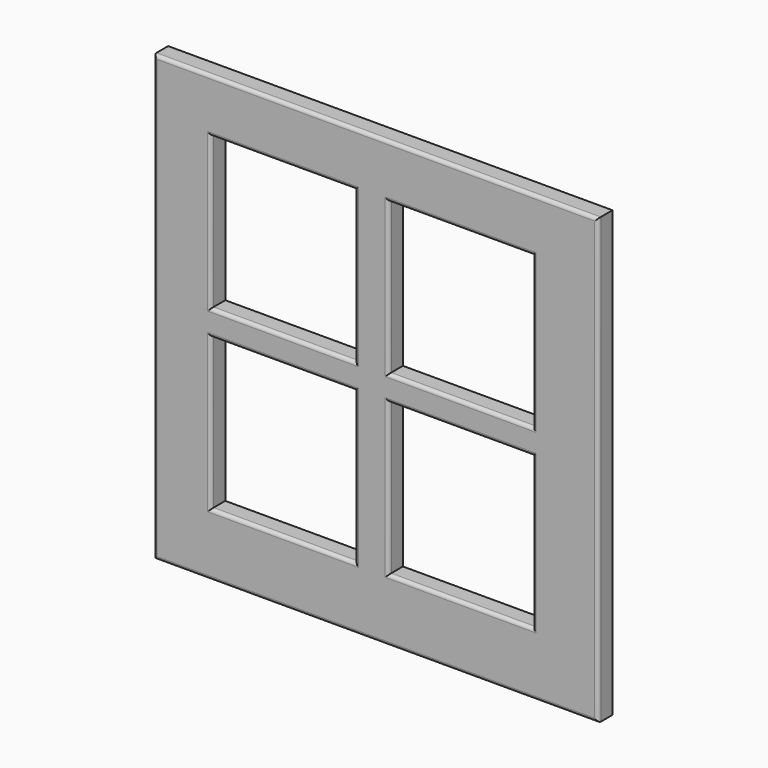
from build123d import *

# Parameters (mm, degrees)
F0_W      = 46.2659336627
F0_H      = 37.4186895788
F1_DEPTH  = 16
F2_DEPTH  = 396
F3_DEPTH  = 396
F4_W      = 286.636531353
F4_H      = 292.4217879772
F5_DEPTH  = 5
F7_DEPTH  = 5
F8_DEPTH  = 24.58
F9_DEPTH  = 28.59
F10_DEPTH = 44.51
F11_DEPTH = 43.6
F12_DEPTH = 23.54
F13_DEPTH = 25.39
F14_DEPTH = 8.54
F15_DEPTH = 6.68
F16_DEPTH = 6.68
F17_DEPTH = 6.68
F18_DEPTH = 1.72
F19_DEPTH = 11
F20_R     = 3


with BuildPart() as f1:
    # F0 (on Front) → F1 (new body)
    with BuildSketch(Plane.XZ):
        with Locations((23.1329668313, 18.7093447894)):
            Rectangle(F0_W, F0_H)
    extrude(amount=F1_DEPTH)

    # F2 (add): a face of the model
    f2_faces = [f1.faces().sort_by_distance(p)[0] for p in [
        (0, -8, 18.7093447894),
    ]]
    extrude(f2_faces, amount=-F2_DEPTH)

    # F3 (add): a face of the model
    f3_faces = [f1.faces().sort_by_distance(p)[0] for p in [
        (198, -8, 0),
    ]]
    extrude(f3_faces, amount=-F3_DEPTH)

    # F4 (on face) → F5 (cut)
    with BuildSketch(Plane.XZ.offset(16)):
        with Locations((194.2568123341, 201.971784234)):
            Rectangle(F4_W, F4_H)
    extrude(amount=-F5_DEPTH, mode=Mode.SUBTRACT)

    # F6 (on face) → F7 (join)
    with BuildSketch(Plane.XZ.offset(11)):
        Polygon((211.1129611731, 348.1826782227), (162.3977422714, 348.1826782227), (162.3977422714, 257.6956450939), (50.9385466576, 257.6956450939), (50.9385466576, 215.037047863), (160.5494618416, 215.037047863), (160.5494618416, 55.7608902454), (207.5308859348, 55.7608902454), (207.5308859348, 219.3460762501), (337.5750780106, 219.3460762501), (337.5750780106, 256.7791342735), (211.1129611731, 256.7791342735), align=None)
    extrude(amount=F7_DEPTH)

    # F8 (add): a face of the model
    f8_faces = [f1.faces().sort_by_distance(p)[0] for p in [
        (105.7440042496, -13.5, 215.037047863),
    ]]
    extrude(f8_faces, amount=F8_DEPTH)

    # F9 (add): a face of the model
    f9_faces = [f1.faces().sort_by_distance(p)[0] for p in [
        (272.5529819727, -13.5, 219.3460762501),
    ]]
    extrude(f9_faces, amount=F9_DEPTH)

    # F10 (cut): a face of the model
    f10_faces = [f1.faces().sort_by_distance(p)[0] for p in [
        (106.6681444645, -13.5, 257.6956450939),
    ]]
    extrude(f10_faces, amount=-F10_DEPTH, mode=Mode.SUBTRACT)

    # F11 (cut): a face of the model
    f11_faces = [f1.faces().sort_by_distance(p)[0] for p in [
        (274.3440195918, -13.5, 256.7791342735),
    ]]
    extrude(f11_faces, amount=-F11_DEPTH, mode=Mode.SUBTRACT)

    # F12 (cut): a face of the model
    f12_faces = [f1.faces().sort_by_distance(p)[0] for p in [
        (162.3977422714, -13.5, 280.6841616583),
    ]]
    extrude(f12_faces, amount=-F12_DEPTH, mode=Mode.SUBTRACT)

    # F13 (cut): a face of the model
    f13_faces = [f1.faces().sort_by_distance(p)[0] for p in [
        (160.5494618416, -13.5, 123.1089690542),
    ]]
    extrude(f13_faces, amount=-F13_DEPTH, mode=Mode.SUBTRACT)

    # F14 (cut): a face of the model
    f14_faces = [f1.faces().sort_by_distance(p)[0] for p in [
        (211.1129611731, -13.5, 280.6809062481),
    ]]
    extrude(f14_faces, amount=-F14_DEPTH, mode=Mode.SUBTRACT)

    # F15 (add): a face of the model
    f15_faces = [f1.faces().sort_by_distance(p)[0] for p in [
        (185.9377422714, -13.5, 280.6841616583),
    ]]
    extrude(f15_faces, amount=F15_DEPTH)

    # F16 (add): a face of the model
    f16_faces = [f1.faces().sort_by_distance(p)[0] for p in [
        (202.5729611731, -13.5, 280.6809062481),
    ]]
    extrude(f16_faces, amount=F16_DEPTH)

    # F17 (add): a face of the model
    f17_faces = [f1.faces().sort_by_distance(p)[0] for p in [
        (185.9394618416, -13.5, 123.1089690542),
    ]]
    extrude(f17_faces, amount=F17_DEPTH)

    # F18 (add): a face of the model
    f18_faces = [f1.faces().sort_by_distance(p)[0] for p in [
        (207.5308859348, -13.5, 123.2584832478),
    ]]
    extrude(f18_faces, amount=F18_DEPTH)

    # F19 (cut): faces of the model
    f19_faces = [f1.faces().sort_by_distance(p)[0] for p in [
        (115.0990042496, -11, 123.1089690542),
        (273.4140195918, -11, 280.6809062481),
        (273.4129819727, -11, 123.2584832478),
        (115.0981444645, -11, 280.6841616583),
    ]]
    extrude(f19_faces, amount=-F19_DEPTH, mode=Mode.SUBTRACT)

    # F20
    f20_edges = [f1.edges().sort_by_distance(p)[0] for p in [
        (0, -16, 198),
        (198, -16, 0),
        (396, -16, 198),
        (198, -16, 396),
        (50.938547, -16, 123.108969),
        (115.099004, -16, 190.457048),
        (179.259462, -16, 123.108969),
        (115.099004, -16, 55.76089),
        (273.412982, -16, 55.76089),
        (209.250886, -16, 123.258483),
        (273.412982, -16, 190.756076),
        (337.575078, -16, 123.258483),
        (115.098144, -16, 348.182678),
        (179.257742, -16, 280.684162),
        (115.098144, -16, 213.185645),
        (50.938547, -16, 280.684162),
        (273.41402, -16, 348.182678),
        (337.575078, -16, 280.680906),
        (273.41402, -16, 213.179134),
        (209.252961, -16, 280.680906),
    ]]
    fillet(f20_edges, radius=F20_R)


solid = f1.part
